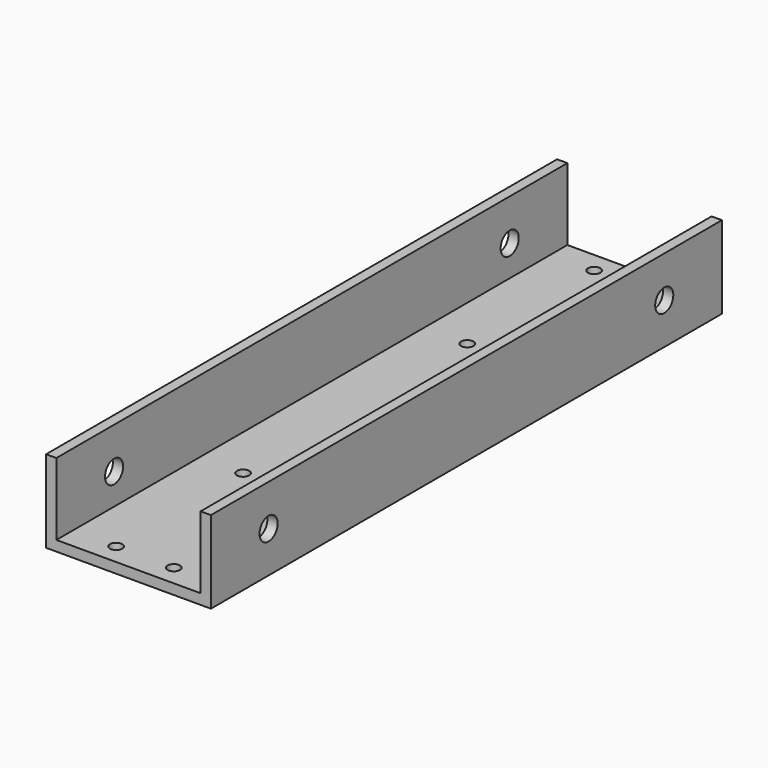
from build123d import *

# Parameters (mm, degrees)
F1_DEPTH = 155
F2_R     = 5.5
F3_DEPTH = 50
F4_R     = 3
F5_DEPTH = 25


with BuildPart() as f1:
    # F0 (on Front) → F1 (new body, symmetric)
    with BuildSketch(Plane.XZ):
        Polygon((35, 17.5), (35, -17.5), (-35, -17.5), (-35, 17.5), (-40, 17.5), (-40, -22.5), (40, -22.5), (40, 17.5), align=None)
    extrude(amount=F1_DEPTH, both=True)

    # F2 (on Right) → F3 (cut, symmetric)
    with BuildSketch(Plane.YZ):
        with Locations((120, -2.5)):
            Circle(F2_R)
        with Locations((-120, -2.5)):
            Circle(F2_R)
    extrude(amount=F3_DEPTH, both=True, mode=Mode.SUBTRACT)

    # F4 (on face) → F5 (cut)
    with BuildSketch(Plane.XY.offset(-17.5)):
        with Locations((-14, 145)):
            Circle(F4_R)
        with Locations((14, 145)):
            Circle(F4_R)
        with Locations((-14, 68)):
            Circle(F4_R)
        with Locations((14, 68)):
            Circle(F4_R)
        with Locations((-14, -68)):
            Circle(F4_R)
        with Locations((14, -68)):
            Circle(F4_R)
        with Locations((-14, -145)):
            Circle(F4_R)
        with Locations((14, -145)):
            Circle(F4_R)
    extrude(amount=-F5_DEPTH, mode=Mode.SUBTRACT)


solid = f1.part
